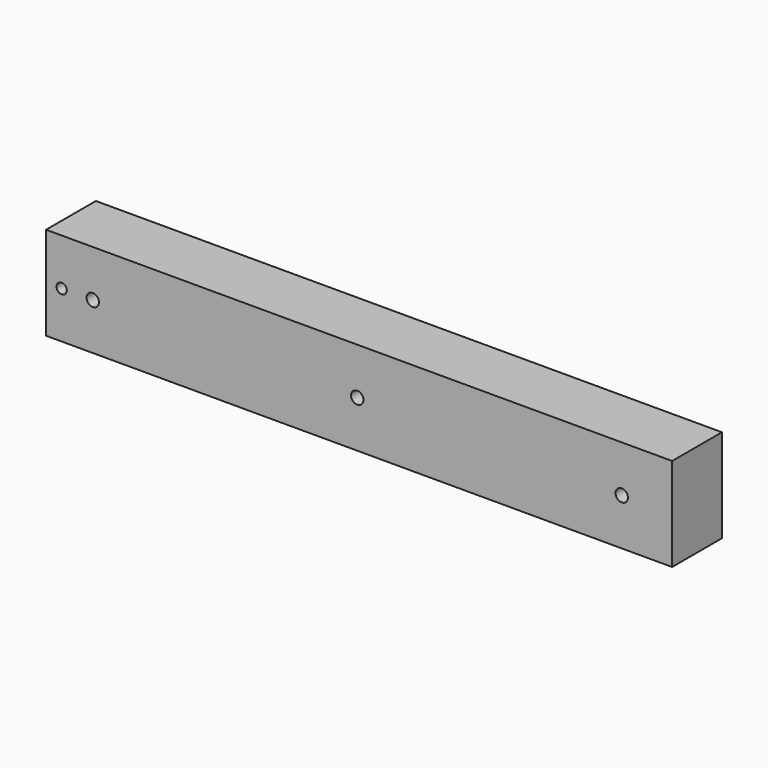
from build123d import *

# Parameters (mm, degrees)
F0_W           = 5
F0_H           = 5
F1_DEPTH       = 200
F3_DEPTH       = 1.2
F5_D           = 4
F5_CSINK_D     = 8.7
F5_CSINK_ANGLE = 90
F6_DEPTH       = 25


with BuildPart() as f1:
    # F0 (on Right) → F1 (new body)
    with BuildSketch(Plane.YZ):
        Polygon((0, 30), (0, 15), (6.1031254008, 15), (10, 15), (10, 25), (15, 25), (20, 25), (20, 30), align=None)
        with Locations((17.5, 22.5)):
            Rectangle(F0_W, F0_H)
        with Locations((17.5, 7.5)):
            Rectangle(F0_W, F0_H)
        Polygon((0, 15), (0, 0), (20, 0), (20, 5), (15, 5), (10, 5), (10, 15), (6.1031254008, 15), align=None)
    extrude(amount=F1_DEPTH)

    # F2 (on face) → F3 (join)
    with BuildSketch(Plane.YZ.offset(200)):
        Polygon((20, 30), (0, 30), (0, 0), (20, 0), (20, 10), (15, 10), (15, 5), (10, 5), (10, 25), (15, 25), (15, 20), (20, 20), align=None)
        Polygon((20, 10), (20, 20), (15, 20), (15, 25), (10, 25), (10, 5), (15, 5), (15, 10), align=None)
    extrude(amount=F3_DEPTH)

    # F5 (through all)
    with Locations(Plane(origin=(0, 10, 0), x_dir=(-1, 0, 0), z_dir=(0, 1, 0))):
        with Locations((-15, 15), (-185, 15), (-100, 15)):
            CounterSinkHole(F5_D / 2, F5_CSINK_D / 2, counter_sink_angle=F5_CSINK_ANGLE)

    # F4 (on face) → F6 (cut)
    with BuildSketch(Plane(origin=(0, 10, 0), x_dir=(-1, 0, 0), z_dir=(0, 1, 0))):
        with BuildLine():
            ThreePointArc((-6.65, 15), (-5, 13.35), (-3.35, 15))
            Line((-3.35, 15), (-5, 15))
            Line((-5, 15), (-6.65, 15))
        make_face()
        with BuildLine():
            Line((-5, 15), (-3.35, 15))
            ThreePointArc((-3.35, 15), (-5, 16.65), (-6.65, 15))
            Line((-6.65, 15), (-5, 15))
        make_face()
    extrude(amount=-F6_DEPTH, mode=Mode.SUBTRACT)


solid = f1.part
